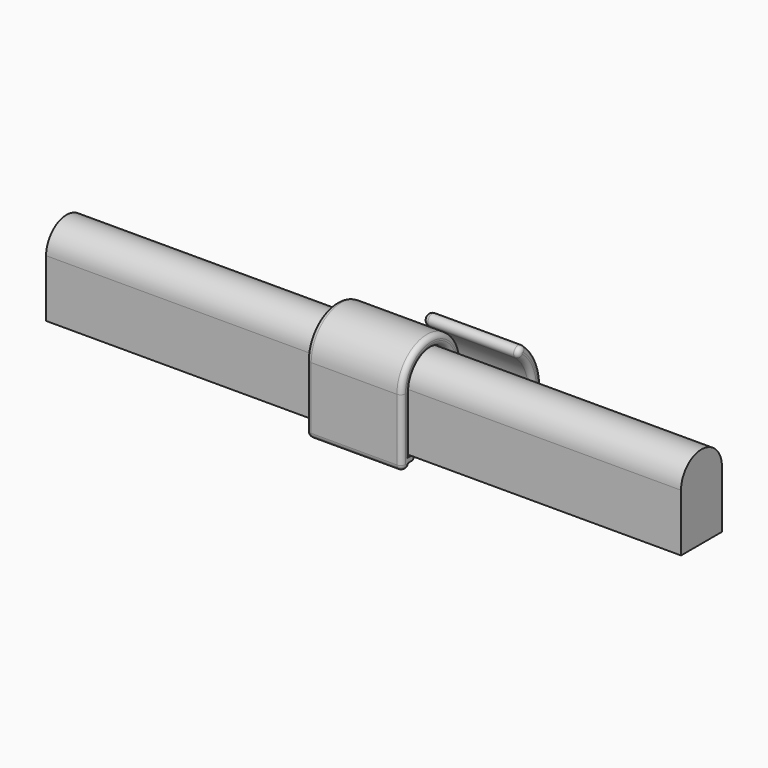
from build123d import *

# Parameters (mm, degrees)
F1_DEPTH = 100
F3_DEPTH = 15
F4_R     = 1.5


with BuildPart() as f1:
    # F0 (on Right) → F1 (new body, symmetric)
    with BuildSketch(Plane.YZ):
        with BuildLine():
            Line((8.05, -18.1), (8.05, 0))
            ThreePointArc((8.05, 0), (0, 8.05), (-8.05, 0))
            Line((-8.05, 0), (-8.05, -18.1))
            Line((-8.05, -18.1), (8.05, -18.1))
        make_face()
    extrude(amount=F1_DEPTH, both=True)


with BuildPart() as f3:
    # F2 (on Right) → F3 (new body, symmetric)
    with BuildSketch(Plane.YZ):
        with BuildLine():
            Line((-8.3, -19.6), (-8.3, -18.1))
            Line((-8.3, -18.1), (-8.3, 0))
            ThreePointArc((-8.3, 0), (0, 8.3), (8.3, 0))
            Line((8.3, 0), (8.3, -18.1))
            Line((8.3, -18.1), (8.3, -19.6))
            Line((8.3, -19.6), (11.8, -19.6))
            Line((11.8, -19.6), (11.8, 0))
            ThreePointArc((11.8, 0), (0, 11.8), (-11.8, 0))
            Line((-11.8, 0), (-11.8, -19.6))
            Line((-11.8, -19.6), (-8.3, -19.6))
        make_face()
        with BuildLine():
            Line((11.8, -19.6), (8.3, -19.6))
            ThreePointArc((8.3, -19.6), (33.19582, -35.460386), (37.048783, -6.194222))
            ThreePointArc((37.048783, -6.194222), (34.583327, -6.409922), (34.799027, -8.875378))
            ThreePointArc((34.799027, -8.875378), (31.716656, -32.288309), (11.8, -19.6))
        make_face()
        with BuildLine():
            Line((8.3, -18.1), (8.05, -18.1))
            ThreePointArc((8.05, -18.1), (7.3, -18.85), (8.05, -19.6))
            Line((8.05, -19.6), (8.3, -19.6))
            Line((8.3, -19.6), (8.3, -18.1))
        make_face()
        with BuildLine():
            ThreePointArc((-11.8, -19.6), (-10.05, -21.35), (-8.3, -19.6))
            Line((-8.3, -19.6), (-11.8, -19.6))
        make_face()
        with BuildLine():
            Line((-7.8, -18.1), (-8.05, -18.1))
            Line((-8.05, -18.1), (-8.3, -18.1))
            Line((-8.3, -18.1), (-8.3, -19.6))
            Line((-8.3, -19.6), (-7.8, -19.6))
            ThreePointArc((-7.8, -19.6), (-7.05, -18.85), (-7.8, -18.1))
        make_face()
    extrude(amount=F3_DEPTH, both=True)

    # F4
    f4_edges = [f3.edges().sort_by_distance(p)[0] for p in [
        (15, 31.716656, -32.288309),
        (15, -8.3, -9.05),
        (-15, -11.8, -9.8),
        (-15, -8.3, -9.05),
    ]]
    fillet(f4_edges, radius=F4_R)


solid = Compound([f1.part, f3.part])
